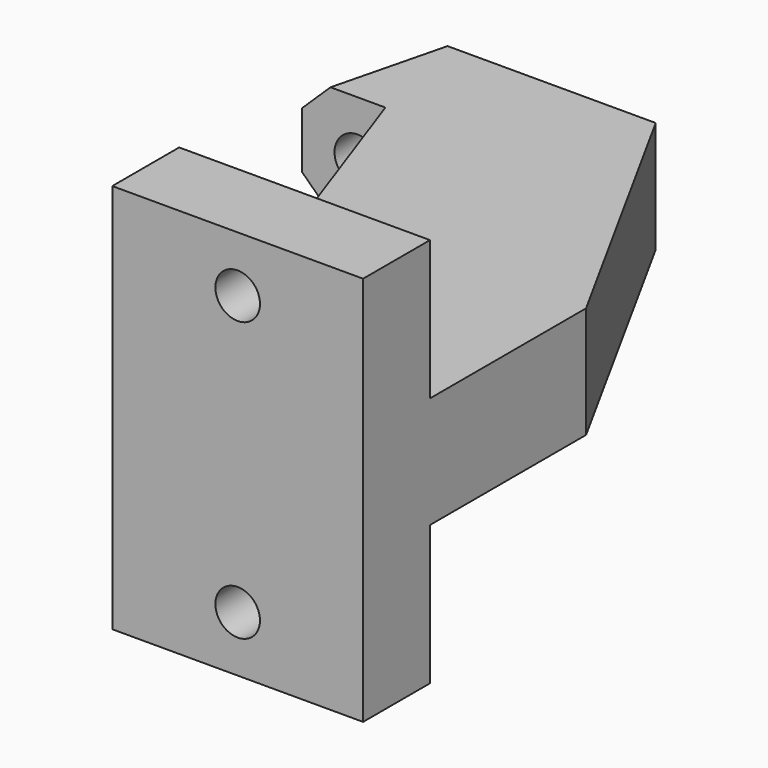
from build123d import *

# Parameters (mm, degrees)
F1_DEPTH  = 8
F2_W      = 18
F2_H      = 6
F3_DEPTH  = 10
F4_W      = 18
F4_H      = 6
F5_DEPTH  = 10
F6_SIZE   = 2
F7_SIZE   = 2
F8_R      = 1.65
F9_DEPTH  = 25
F10_R     = 1.6
F11_DEPTH = 25


with BuildPart() as f1:
    # F0 (on Top) → F1 (new body)
    with BuildSketch(Plane.XY):
        Polygon((-17.884355, 24.999997), (-19.884355, 16.999997), (-13.884355, 16.999997), (-7.884355, 0), (-7.884355, -15.000003), (10.115645, -15.000003), (10.115645, 4.999997), (-0.884355, 24.999997), align=None)
    extrude(amount=F1_DEPTH)

    # F2 (on face) → F3 (join)
    with BuildSketch(Plane.XY.offset(8)):
        with Locations((1.115645, -12.000003)):
            Rectangle(F2_W, F2_H)
    extrude(amount=F3_DEPTH)

    # F4 (on face) → F5 (join)
    with BuildSketch(Plane(origin=(0, 0, 0), x_dir=(1, 0, 0), z_dir=(0, 0, -1))):
        with Locations((1.115645, 12.000003)):
            Rectangle(F4_W, F4_H)
    extrude(amount=F5_DEPTH)

    # F6
    f6_edges = [f1.edges().sort_by_distance(p)[0] for p in [
        (-18.884355, 20.999997, 0),
    ]]
    chamfer(f6_edges, length=F6_SIZE)

    # F7
    f7_edges = [f1.edges().sort_by_distance(p)[0] for p in [
        (-18.884355, 20.999997, 8),
    ]]
    chamfer(f7_edges, length=F7_SIZE)

    # F8 (on face) → F9 (cut)
    with BuildSketch(Plane(origin=(0, 24.999997, 0), x_dir=(-1, 0, 0), z_dir=(0, 1, 0))):
        with Locations((15.884355, 4)):
            Circle(F8_R)
    extrude(amount=-F9_DEPTH, mode=Mode.SUBTRACT)

    # F10 (on face) → F11 (cut)
    with BuildSketch(Plane.XZ.offset(15.000003)):
        with Locations((1.115645, 14)):
            Circle(F10_R)
        with Locations((1.115645, -6)):
            Circle(F10_R)
    extrude(amount=-F11_DEPTH, mode=Mode.SUBTRACT)


solid = f1.part
